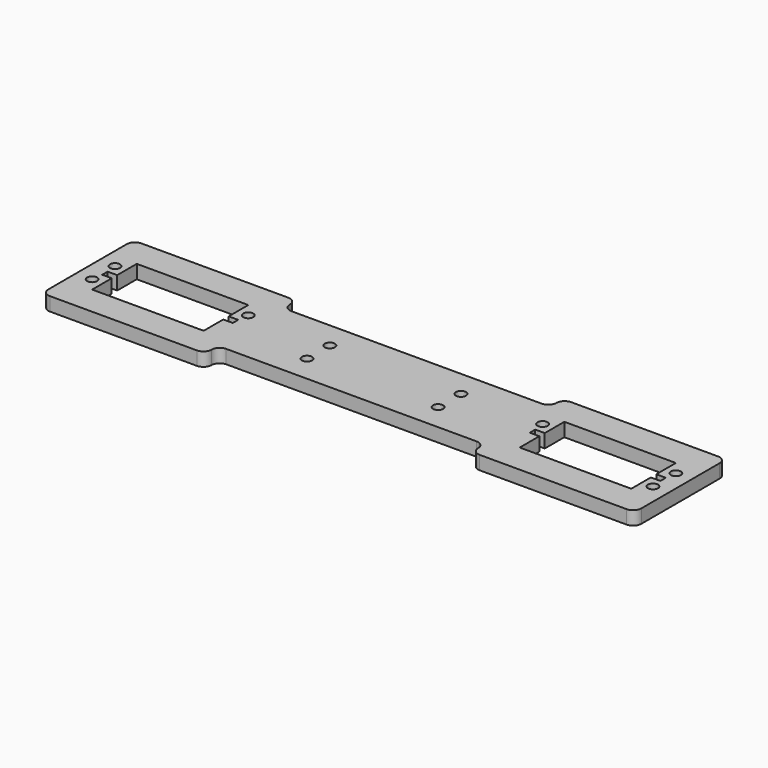
from build123d import *

# Parameters (mm, degrees)
F0_R     = 1.85
F1_DEPTH = 5


with BuildPart() as f1:
    # F0 (on Top) → F1 (new body)
    with BuildSketch(Plane.XY):
        with BuildLine():
            Line((52, -21), (106, -21))
            ThreePointArc((106, -21), (108.12132, -20.12132), (109, -18))
            Line((109, -18), (109, 18))
            ThreePointArc((109, 18), (108.12132, 20.12132), (106, 21))
            Line((106, 21), (52, 21))
            ThreePointArc((52, 21), (49.87868, 20.12132), (49, 18))
            ThreePointArc((49, 18), (48.12132, 15.87868), (46, 15))
            Line((46, 15), (0, 15))
            Line((0, 15), (-46, 15))
            ThreePointArc((-46, 15), (-48.12132, 15.87868), (-49, 18))
            ThreePointArc((-49, 18), (-49.87868, 20.12132), (-52, 21))
            Line((-52, 21), (-106, 21))
            ThreePointArc((-106, 21), (-108.12132, 20.12132), (-109, 18))
            Line((-109, 18), (-109, -18))
            ThreePointArc((-109, -18), (-108.12132, -20.12132), (-106, -21))
            Line((-106, -21), (-52, -21))
            ThreePointArc((-52, -21), (-49.87868, -20.12132), (-49, -18))
            ThreePointArc((-49, -18), (-48.12132, -15.87868), (-46, -15))
            Line((-46, -15), (0, -15))
            Line((0, -15), (46, -15))
            ThreePointArc((46, -15), (48.12132, -15.87868), (49, -18))
            ThreePointArc((49, -18), (49.87868, -20.12132), (52, -21))
        make_face()
        with Locations((-103.1, -5.25)):
            Circle(F0_R, mode=Mode.SUBTRACT)
        with Locations((-24.1, -5.25)):
            Circle(F0_R, mode=Mode.SUBTRACT)
        with Locations((24.1, -5.25)):
            Circle(F0_R, mode=Mode.SUBTRACT)
        with Locations((103.1, -5.25)):
            Circle(F0_R, mode=Mode.SUBTRACT)
        with Locations((-103.1, 5.25)):
            Circle(F0_R, mode=Mode.SUBTRACT)
        Polygon((-102.6, -1.25), (-102.6, 1.25), (-99.1, 1.25), (-99.1, 10.25), (-58.1, 10.25), (-58.1, 1.25), (-54.6, 1.25), (-54.6, -1.25), (-58.1, -1.25), (-58.1, -10.25), (-99.1, -10.25), (-99.1, -1.25), align=None, mode=Mode.SUBTRACT)
        with Locations((-54.1, 5.25)):
            Circle(F0_R, mode=Mode.SUBTRACT)
        with Locations((-24.1, 5.25)):
            Circle(F0_R, mode=Mode.SUBTRACT)
        Polygon((58.1, 1.25), (58.1, 10.25), (99.1, 10.25), (99.1, 1.25), (102.6, 1.25), (102.6, -1.25), (99.1, -1.25), (99.1, -10.25), (58.1, -10.25), (58.1, -1.25), (54.6, -1.25), (54.6, 1.25), align=None, mode=Mode.SUBTRACT)
        with Locations((24.1, 5.25)):
            Circle(F0_R, mode=Mode.SUBTRACT)
        with Locations((54.1, 5.25)):
            Circle(F0_R, mode=Mode.SUBTRACT)
        with Locations((103.1, 5.25)):
            Circle(F0_R, mode=Mode.SUBTRACT)
    extrude(amount=F1_DEPTH)


solid = f1.part
